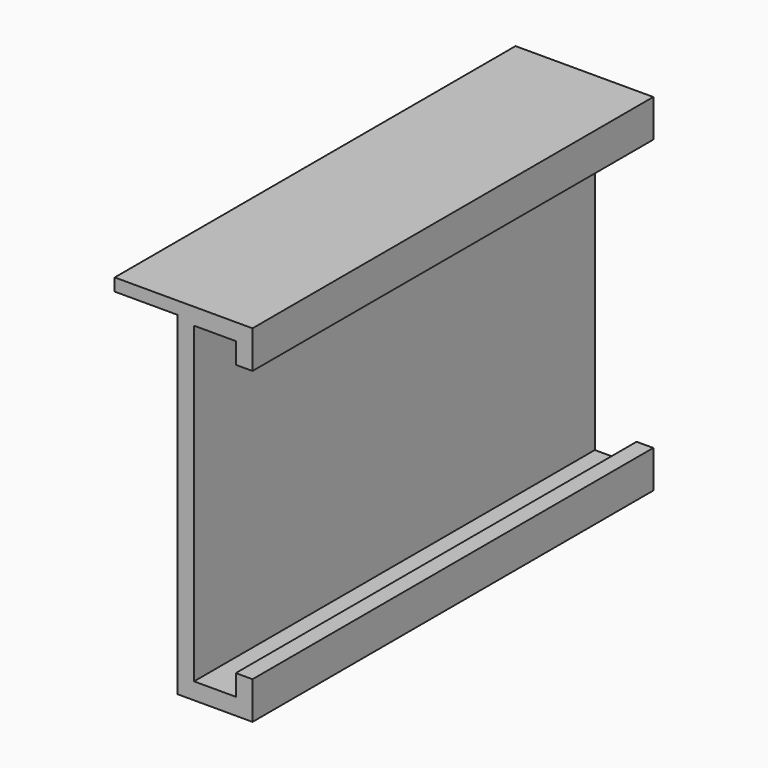
from build123d import *

# Parameters (mm, degrees)
F0_W     = 15
F0_H     = 3
F1_DEPTH = 120


with BuildPart() as f1:
    # F0 (on Front) → F1 (new body)
    with BuildSketch(Plane.XZ):
        Polygon((16.17741, -38.838097), (12.17741, -38.838097), (12.17741, -43.838097), (2.17741, -43.838097), (2.17741, 31.161903), (12.17741, 31.161903), (12.17741, 26.161903), (16.17741, 26.161903), (16.17741, 35.161903), (-1.82259, 35.161903), (-1.82259, 32.161903), (-1.82259, -47.838097), (16.17741, -47.838097), align=None)
        with Locations((-9.32259, 33.661903)):
            Rectangle(F0_W, F0_H)
    extrude(amount=F1_DEPTH)


solid = f1.part
